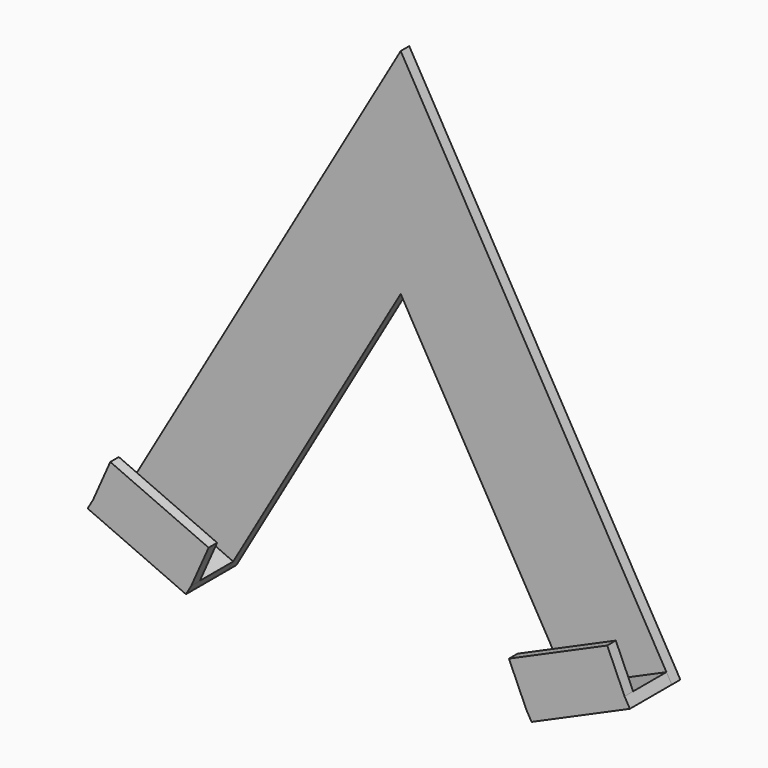
from build123d import *

# Parameters (mm, degrees)
F1_DEPTH = 3.175
F3_DEPTH = 15.5575
F4_W     = 31.932119
F4_H     = 3.175
F5_DEPTH = 12.7
F6_W     = 31.932119
F6_H     = 3.175
F7_DEPTH = 12.7


with BuildPart() as f1:
    # F0 (on Front) → F1 (new body)
    with BuildSketch(Plane.XZ):
        Polygon((0, 63.5), (0, 0), (51.326439, -88.9), (80.525518, -75.974289), align=None)
        Polygon((-51.326439, -88.9), (0, 0), (0, 63.5), (-80.525518, -75.974289), align=None)
    extrude(amount=F1_DEPTH)

    # F2 (on face) → F3 (join)
    with BuildSketch(Plane.XZ.offset(3.175)):
        Polygon((-78.938018, -73.224658), (-80.525518, -75.974289), (-51.326439, -88.9), (-49.738939, -86.150369), align=None)
        Polygon((49.738939, -86.150369), (51.326439, -88.9), (80.525518, -75.974289), (78.938018, -73.224658), align=None)
    extrude(amount=F3_DEPTH)

    # F4 (on face) → F5 (join)
    with BuildSketch(Plane(origin=(-40.037708, 0, -90.444865), x_dir=(0.914411, 0, -0.404787), z_dir=(0.404787, 0, 0.914411))):
        with Locations((-26.575328, -17.145)):
            Rectangle(F4_W, F4_H)
    extrude(amount=F5_DEPTH)

    # F6 (on face) → F7 (join)
    with BuildSketch(Plane(origin=(40.037708, 0, -90.444865), x_dir=(0.914411, 0, 0.404787), z_dir=(-0.404787, 0, 0.914411))):
        with Locations((26.575328, -17.145)):
            Rectangle(F6_W, F6_H)
    extrude(amount=F7_DEPTH)


solid = f1.part
